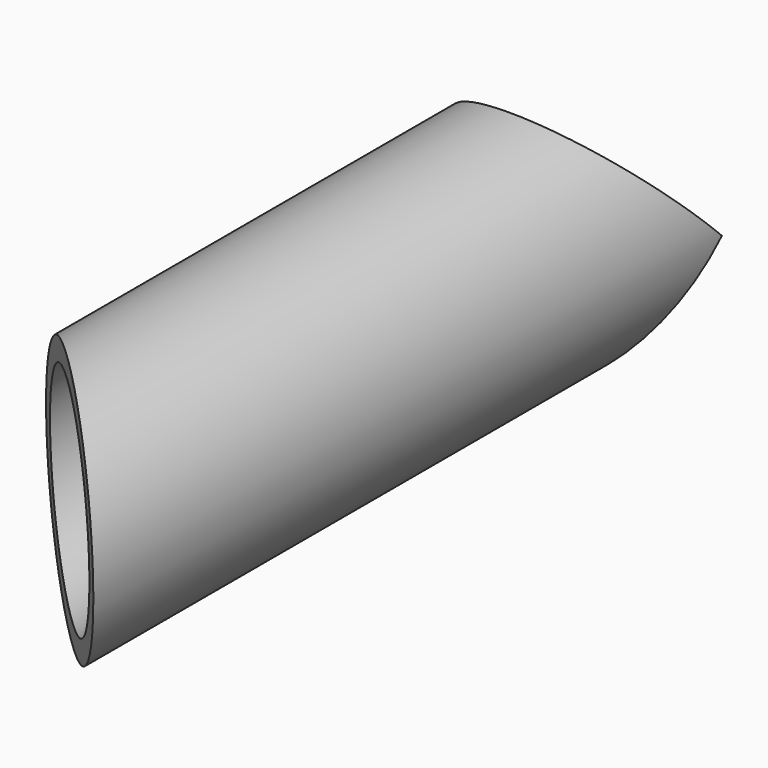
from build123d import *

# Parameters (mm, degrees)
F0_R     = 15
F0_R_2   = 12.5
F1_DEPTH = 99.852813
F2_R     = 15
F3_DEPTH = 17.5
F5_DEPTH = 17500


with BuildPart() as f1:
    # F0 (on Front) → F1 (new body)
    with BuildSketch(Plane.XZ):
        Circle(F0_R)
        Circle(F0_R_2, mode=Mode.SUBTRACT)
    extrude(amount=F1_DEPTH)

    # F2 (on Top) → F3 (cut, symmetric)
    with BuildSketch(Plane.XY):
        Circle(F2_R)
    extrude(amount=F3_DEPTH, both=True, mode=Mode.SUBTRACT)

    # F4 (on Top) → F5 (cut, symmetric)
    with BuildSketch(Plane.XY):
        Polygon((-15, -99.852813), (15, -99.852813), (-15, -69.852813), align=None)
    extrude(amount=F5_DEPTH, both=True, mode=Mode.SUBTRACT)


solid = f1.part
